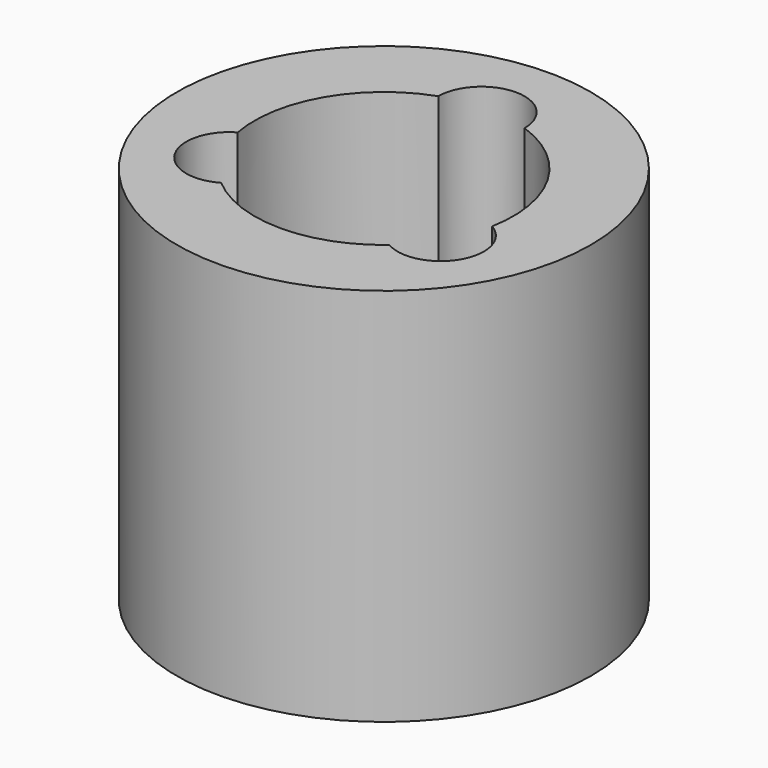
from build123d import *

# Parameters (mm, degrees)
F0_R     = 6
F0_R_2   = 0.5
F1_DEPTH = 11
F2_R     = 0.5
F3_DEPTH = 5


with BuildPart() as f1:
    # F0 (on Top) → F1 (new body)
    with BuildSketch(Plane.XY):
        Circle(F0_R)
        Circle(F0_R_2, mode=Mode.SUBTRACT)
    extrude(amount=F1_DEPTH)

    # F2 (on face) → F3 (cut)
    with BuildSketch(Plane.XY.offset(11)):
        with BuildLine():
            ThreePointArc((-1.25, 3.535534), (-3.247595, 1.875), (-3.686862, -0.685235))
            ThreePointArc((-3.686862, -0.685235), (-4.144394, -2.392767), (-2.436862, -2.850299))
            ThreePointArc((-2.436862, -2.850299), (0, -3.75), (2.436862, -2.850299))
            ThreePointArc((2.436862, -2.850299), (4.144394, -2.392767), (3.686862, -0.685235))
            ThreePointArc((3.686862, -0.685235), (3.247595, 1.875), (1.25, 3.535534))
            ThreePointArc((1.25, 3.535534), (0, 4.785534), (-1.25, 3.535534))
        make_face()
        Circle(F2_R, mode=Mode.SUBTRACT)
    extrude(amount=-F3_DEPTH, mode=Mode.SUBTRACT)


solid = f1.part
